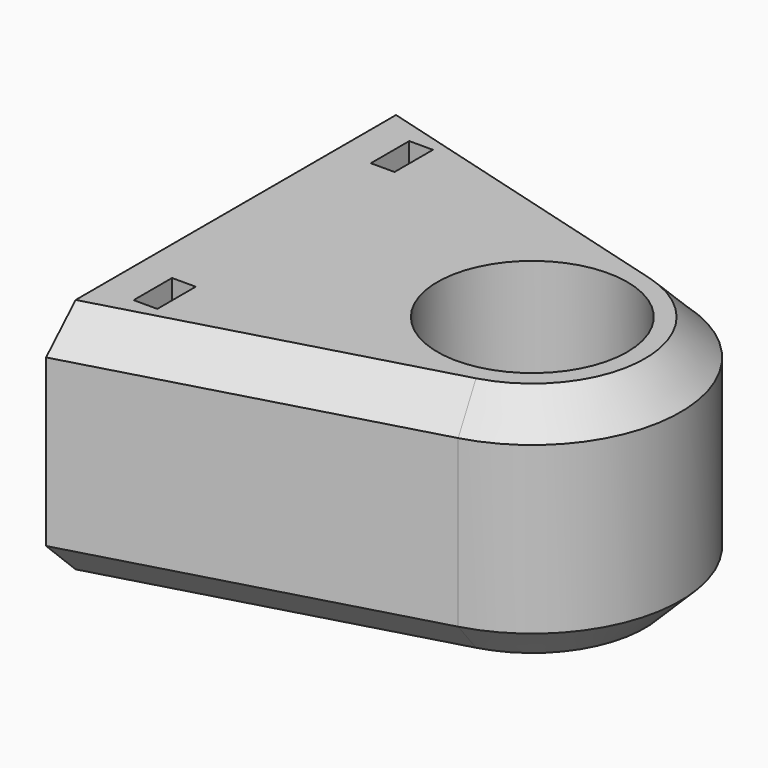
from build123d import *

# Parameters (mm, degrees)
PAD_DEPTH       = 40
SKETCH001_R     = 16
POCKET_DEPTH    = 35
POCKET001_DEPTH = 4
SKETCH003_R     = 2.6
POCKET002_DEPTH = 30
CHAMFER_SIZE    = 6


with BuildPart() as part:
    # Sketch → Pad (new body)
    with BuildSketch(Plane.XY):
        with BuildLine():
            Line((-50, 40), (6.755886, 24.069857))
            ThreePointArc((6.755886, -24.069857), (25, 0), (6.755886, 24.069857))
            Line((6.755886, -24.069857), (-50, -40))
            Line((-50, 40), (-50, -40))
        make_face()
    extrude(amount=PAD_DEPTH)

    # Sketch001 (on Face6 of Pad) → Pocket (cut)
    with BuildSketch(Plane.XY.offset(40)):
        Circle(SKETCH001_R)
    extrude(amount=-POCKET_DEPTH, mode=Mode.SUBTRACT)

    # Sketch002 (on Face2 of Pocket) → Pocket001 (cut)
    with BuildSketch(Plane(origin=(-44, 0, 0), x_dir=(0, -1, 0), z_dir=(-1, 0, 0))):
        Polygon((-29.05, 31.661731), (-25, 29.323463), (-20.95, 31.661731), (-20.95, 51.661731), (-29.05, 51.661731), align=None)
        Polygon((25, 29.323463), (20.95, 31.661731), (20.95, 51.661731), (29.05, 51.661731), (29.05, 31.661731), align=None)
        Polygon((-29.05, 8.338269), (-25, 10.676537), (-20.95, 8.338269), (-20.95, -11.661731), (-29.05, -11.661731), align=None)
        Polygon((20.95, 8.338269), (25, 10.676537), (29.05, 8.338269), (29.05, -11.661731), (20.95, -11.661731), align=None)
    extrude(amount=-POCKET001_DEPTH, mode=Mode.SUBTRACT)

    # Sketch003 (on Face2 of Pocket001) → Pocket002 (cut)
    with BuildSketch(Plane(origin=(-50, 0, 0), x_dir=(0, -1, 0), z_dir=(-1, 0, 0))):
        with Locations((25, 34)):
            Circle(SKETCH003_R)
        with Locations((-25, 6)):
            Circle(SKETCH003_R)
        with Locations((25, 6)):
            Circle(SKETCH003_R)
        with Locations((-25, 34)):
            Circle(SKETCH003_R)
    extrude(amount=-POCKET002_DEPTH, mode=Mode.SUBTRACT)

    # Chamfer
    chamfer_edges = [part.edges().sort_by_distance(p)[0] for p in [
        (-21.622057, -32.034928, 40),
        (-21.622057, -32.034928, 0),
    ]]
    chamfer(chamfer_edges, length=CHAMFER_SIZE)


solid = part.part
